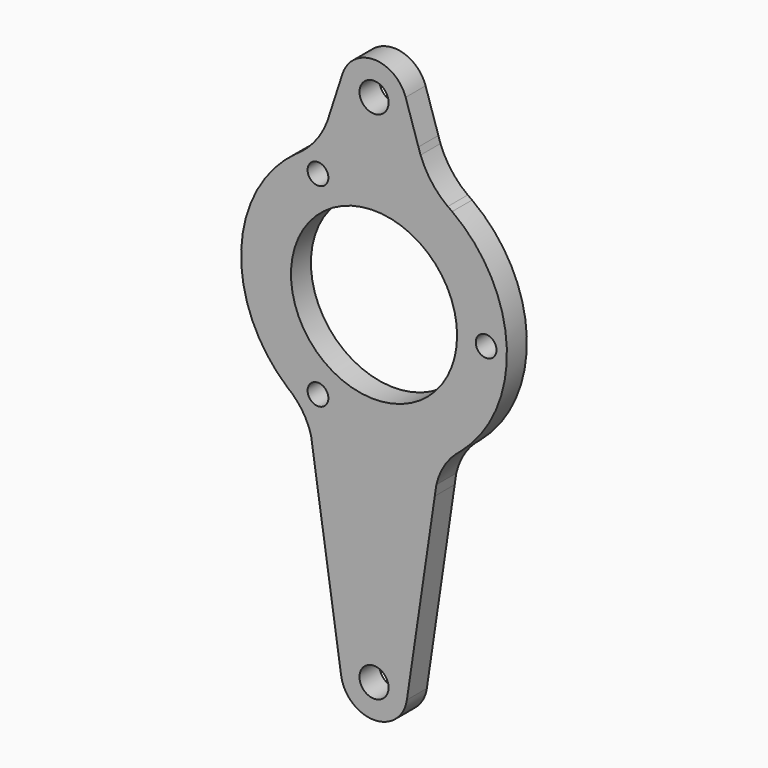
from build123d import *

# Parameters (mm, degrees)
F0_R     = 3.96875
F0_R_2   = 5.55625
F0_R_3   = 31.75
F1_DEPTH = 9.525


with BuildPart() as f1:
    # F0 (on Front) → F1 (new body)
    with BuildSketch(Plane.XZ):
        with BuildLine():
            ThreePointArc((33.092886, -38.542196), (32.249768, -39.205807), (31.436006, -39.905106))
            ThreePointArc((31.436006, -39.905106), (32.271642, -39.232399), (33.092886, -38.542196))
        make_face()
        with BuildLine():
            ThreePointArc((23.811322, -52.800433), (26.631417, -45.766078), (31.436006, -39.905106))
            ThreePointArc((31.436006, -39.905106), (32.249768, -39.205807), (33.092886, -38.542196))
            ThreePointArc((33.092886, -38.542196), (50.758169, 2.061123), (29.858939, 41.098464))
            ThreePointArc((29.858939, 41.098464), (29.013919, 41.666312), (28.188194, 42.261871))
            ThreePointArc((28.188194, 42.261871), (21.979274, 48.464306), (17.779188, 56.170158))
            ThreePointArc((17.779188, 56.170158), (17.351844, 57.400179), (16.97705, 58.647217))
            Line((16.97705, 58.647217), (12.082292, 73.762571))
            ThreePointArc((12.082292, 73.762571), (0.00459, 82.549999), (-12.079461, 73.771303))
            Line((-12.079461, 73.771303), (-17.880818, 55.900391))
            ThreePointArc((-17.880818, 55.900391), (-22.06591, 48.34911), (-28.188194, 42.261871))
            ThreePointArc((-28.188194, 42.261871), (-29.013919, 41.666312), (-29.858939, 41.098464))
            ThreePointArc((-29.858939, 41.098464), (-50.758169, 2.061123), (-33.092886, -38.542196))
            ThreePointArc((-33.092886, -38.542196), (-32.249768, -39.205807), (-31.436006, -39.905106))
            ThreePointArc((-31.436006, -39.905106), (-26.912412, -45.302434), (-24.079936, -51.750002))
            Line((-24.079936, -51.750002), (-12.560675, -128.876017))
            ThreePointArc((-12.560675, -128.876017), (0.009125, -139.699997), (12.563358, -128.857965))
            Line((12.563358, -128.857965), (23.215962, -56.826197))
            ThreePointArc((23.215962, -56.826197), (23.431303, -54.801138), (23.811322, -52.800433))
        make_face()
        with Locations((-21.4249, -37.109015)):
            Circle(F0_R, mode=Mode.SUBTRACT)
        with Locations((0, -127)):
            Circle(F0_R_2, mode=Mode.SUBTRACT)
        with Locations((-21.4249, 37.109015)):
            Circle(F0_R, mode=Mode.SUBTRACT)
        Circle(F0_R_3, mode=Mode.SUBTRACT)
        with Locations((42.8498, 0)):
            Circle(F0_R, mode=Mode.SUBTRACT)
        with Locations((0, 69.85)):
            Circle(F0_R_2, mode=Mode.SUBTRACT)
        with BuildLine():
            Line((23.215962, -56.826197), (23.811322, -52.800433))
            ThreePointArc((23.811322, -52.800433), (23.431303, -54.801138), (23.215962, -56.826197))
        make_face()
        with BuildLine():
            ThreePointArc((28.188194, 42.261871), (29.013919, 41.666312), (29.858939, 41.098464))
            ThreePointArc((29.858939, 41.098464), (29.029395, 41.688538), (28.188194, 42.261871))
        make_face()
        with BuildLine():
            ThreePointArc((16.97705, 58.647217), (17.351844, 57.400179), (17.779188, 56.170158))
            Line((17.779188, 56.170158), (16.97705, 58.647217))
        make_face()
        with BuildLine():
            ThreePointArc((-33.092886, -38.542196), (-32.271642, -39.232399), (-31.436006, -39.905106))
            ThreePointArc((-31.436006, -39.905106), (-32.249768, -39.205807), (-33.092886, -38.542196))
        make_face()
        with BuildLine():
            ThreePointArc((-28.188194, 42.261871), (-29.029395, 41.688538), (-29.858939, 41.098464))
            ThreePointArc((-29.858939, 41.098464), (-29.013919, 41.666312), (-28.188194, 42.261871))
        make_face()
    extrude(amount=F1_DEPTH)


solid = f1.part
